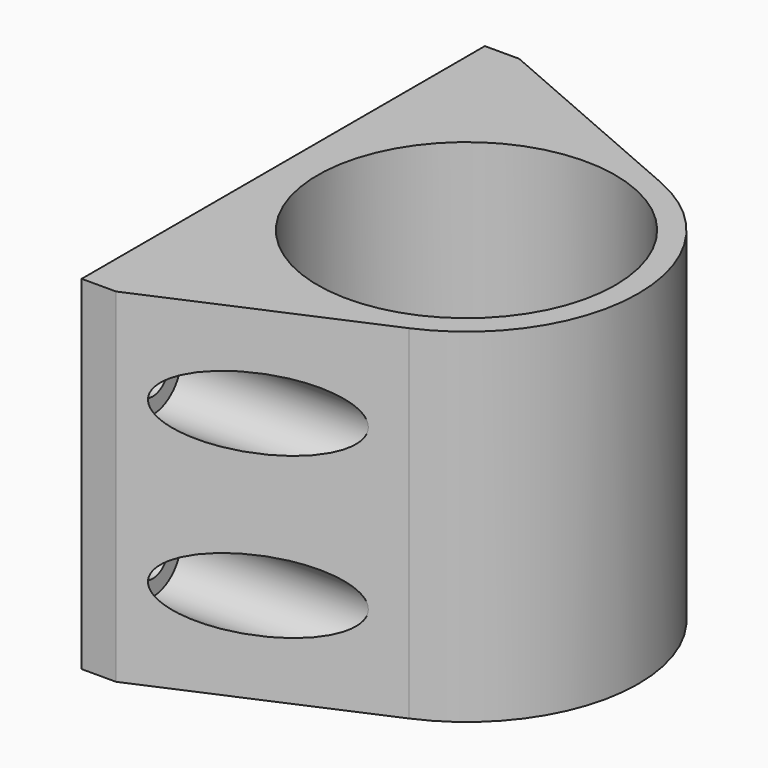
from build123d import *

# Parameters (mm, degrees)
SKETCH002_R     = 3.1
PAD001_DEPTH    = 20
PAD_DEPTH       = 30
SKETCH001_R     = 13
POCKET_DEPTH    = 27
SKETCH003_R     = 1.7
POCKET001_DEPTH = 3
SKETCH004_R     = 3.6
SKETCH004_R_2   = 1.7
POCKET002_DEPTH = 3


with BuildPart() as pad001:
    # Sketch002 → Pad001 (new body)
    with BuildSketch(Plane.YZ.offset(3)):
        with Locations((4, 22)):
            Circle(SKETCH002_R)
        with Locations((40, 22)):
            Circle(SKETCH002_R)
        with Locations((4, 8)):
            Circle(SKETCH002_R)
        with Locations((40, 8)):
            Circle(SKETCH002_R)
    extrude(amount=PAD001_DEPTH)


with BuildPart() as pocket002:
    # Sketch → Pad (new body)
    with BuildSketch(Plane.XY):
        with BuildLine():
            Line((0, 0), (0, 44))
            Line((0, 44), (3, 44))
            Line((3, 44), (21.975605, 35.758343))
            ThreePointArc((21.975609, 8.241648), (31, 21.999997), (21.975605, 35.758343))
            Line((21.975609, 8.241648), (3, 0))
            Line((3, 0), (0, 0))
        make_face()
    extrude(amount=PAD_DEPTH)

    # Sketch001 → Pocket (cut)
    with BuildSketch(Plane.XY.offset(30)):
        with Locations((16, 22)):
            Circle(SKETCH001_R)
    extrude(amount=-POCKET_DEPTH, mode=Mode.SUBTRACT)

    # Cut: cut Pad001
    add(pad001.part, mode=Mode.SUBTRACT)

    # Sketch003 → Pocket001 (cut)
    with BuildSketch(Plane.YZ.offset(3)):
        with Locations((4, 22)):
            Circle(SKETCH003_R)
        with Locations((40, 22)):
            Circle(SKETCH003_R)
        with Locations((4, 8)):
            Circle(SKETCH003_R)
        with Locations((40, 8)):
            Circle(SKETCH003_R)
    extrude(amount=-POCKET001_DEPTH, mode=Mode.SUBTRACT)

    # Sketch004 → Pocket002 (cut)
    with BuildSketch(Plane.XY.offset(3)):
        with Locations((16, 22)):
            Circle(SKETCH004_R)
        with Locations((16, 29.81356)):
            Circle(SKETCH004_R_2)
        with Locations((16, 14.18644)):
            Circle(SKETCH004_R_2)
    extrude(amount=-POCKET002_DEPTH, mode=Mode.SUBTRACT)


solid = pocket002.part
